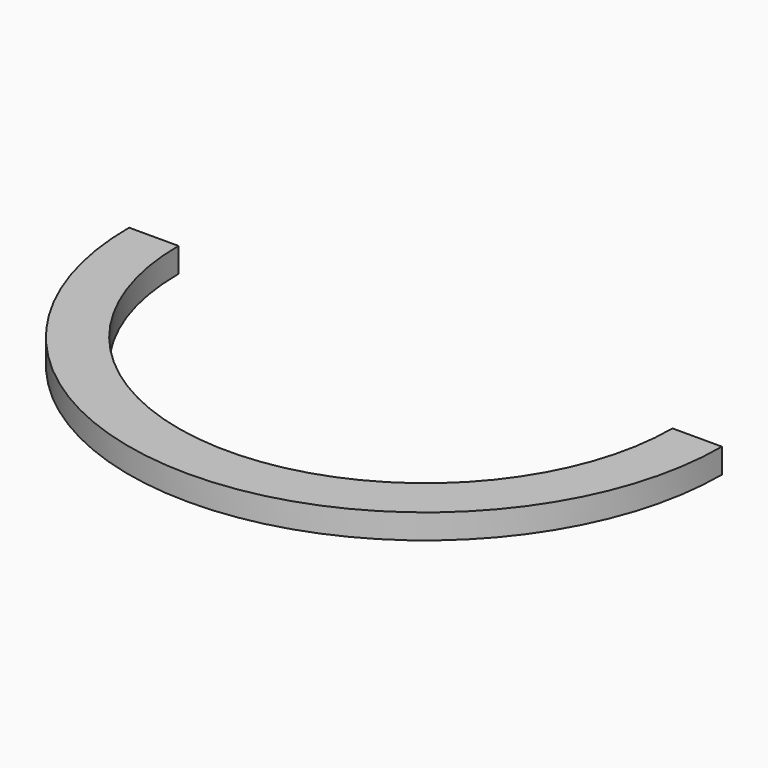
from build123d import *

# Parameters (mm, degrees)
F0_W     = 4
F0_H     = 2
F2_W     = 81.854016
F2_H     = 67.138687
F3_DEPTH = 24.001


with BuildPart() as f1:
    # F0 (on Front) → F1 (revolve)
    with BuildSketch(Plane.XZ):
        with Locations((19.964863, -0.114964)):
            Rectangle(F0_W, F0_H)
    revolve(axis=Axis((-2.035137, 0, 0.689781), (0, 0, -1)))

    # F2 (on Front) → F3 (cut, through all)
    with BuildSketch(Plane.XZ):
        with Locations((-4.253652, -0.459853)):
            Rectangle(F2_W, F2_H)
    extrude(amount=-F3_DEPTH, mode=Mode.SUBTRACT)


solid = f1.part
